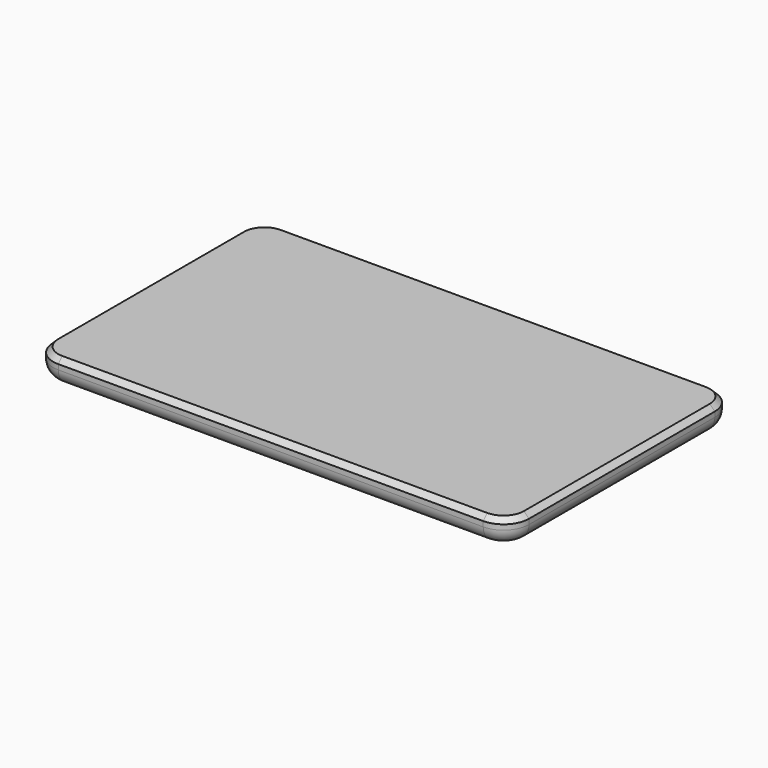
from build123d import *

# Parameters (mm, degrees)
F0_W     = 186.9
F0_H     = 111.2
F1_DEPTH = 10
F2_R     = 10
F3_SIZE  = 2
F4_R     = 6


with BuildPart() as f1:
    # F0 (on Top) → F1 (new body)
    with BuildSketch(Plane.XY):
        Rectangle(F0_W, F0_H)
    extrude(amount=F1_DEPTH)

    # F2
    f2_edges = [f1.edges().sort_by_distance(p)[0] for p in [
        (93.45, 55.6, 5),
        (93.45, -55.6, 5),
        (-93.45, 55.6, 5),
        (-93.45, -55.6, 5),
    ]]
    fillet(f2_edges, radius=F2_R)

    # F3
    f3_edges = [f1.edges().sort_by_distance(p)[0] for p in [
        (0, 55.6, 10),
    ]]
    chamfer(f3_edges, length=F3_SIZE)

    # F4
    f4_edges = [f1.edges().sort_by_distance(p)[0] for p in [
        (0, 55.6, 0),
    ]]
    fillet(f4_edges, radius=F4_R)


solid = f1.part
